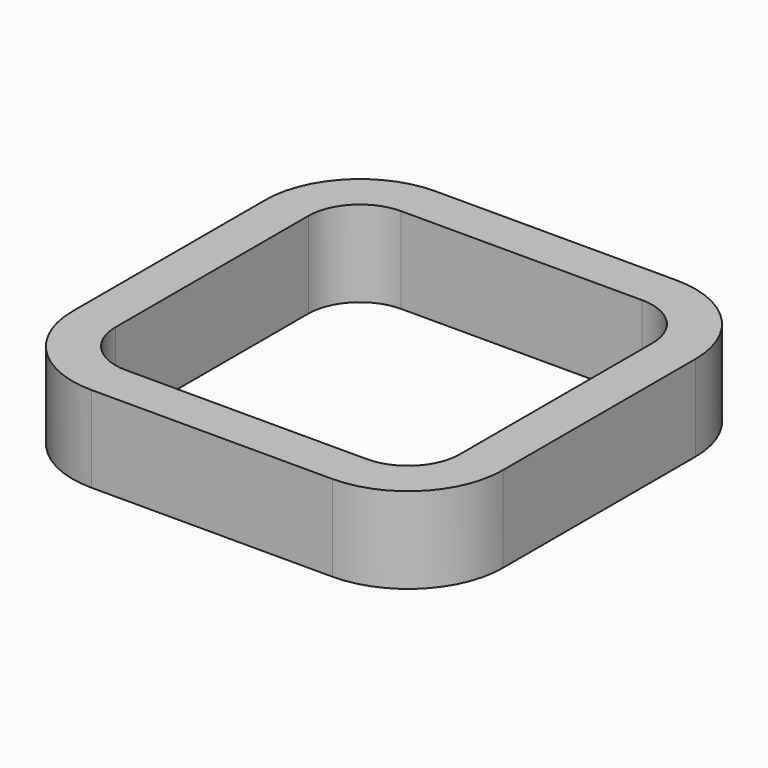
from build123d import *

# Parameters (mm, degrees)
PAD_DEPTH = 10


with BuildPart() as part:
    # Sketch → Pad (new body)
    with BuildSketch(Plane.XY):
        with BuildLine():
            ThreePointArc((-14, 25), (-21.778175, 21.778175), (-25, 14))
            Line((-25, -14), (-25, 14))
            ThreePointArc((-25, -14), (-21.778175, -21.778175), (-14, -25))
            Line((14, -25), (-14, -25))
            ThreePointArc((14, -25), (21.778175, -21.778175), (25, -14))
            Line((25, 14), (25, -14))
            ThreePointArc((25, 14), (21.778175, 21.778175), (14, 25))
            Line((-14, 25), (14, 25))
        make_face()
        with BuildLine():
            ThreePointArc((-14, 20), (-18.242641, 18.242641), (-20, 14))
            Line((-20, -14), (-20, 14))
            ThreePointArc((-20, -14), (-18.242641, -18.242641), (-14, -20))
            Line((14, -20), (-14, -20))
            ThreePointArc((14, -20), (18.242641, -18.242641), (20, -14))
            Line((20, 14), (20, -14))
            ThreePointArc((20, 14), (18.242641, 18.242641), (14, 20))
            Line((-14, 20), (14, 20))
        make_face(mode=Mode.SUBTRACT)
    extrude(amount=PAD_DEPTH)


solid = part.part
